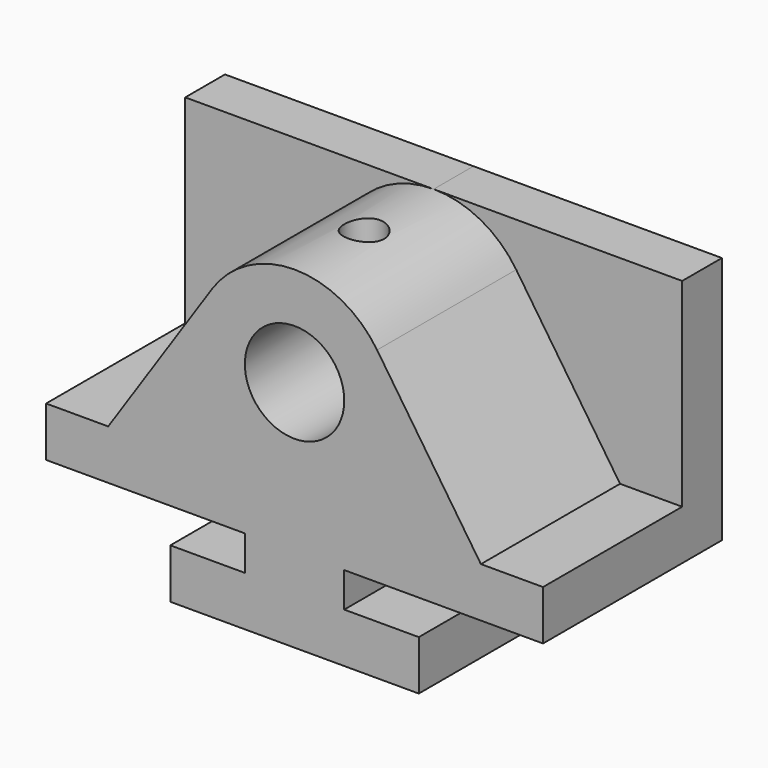
from build123d import *

# Parameters (mm, degrees)
F0_R     = 12.7
F1_DEPTH = 44.45
F3_DEPTH = 12.7
F4_R     = 5.08
F5_DEPTH = 14.7602579501


with BuildPart() as f1:
    # F0 (on Front) → F1 (new body)
    with BuildSketch(Plane.XZ):
        with BuildLine():
            Line((-31.75, -21.59), (0, -21.59))
            Line((0, -21.59), (31.75, -21.5900009905))
            Line((31.75, -21.5900009905), (31.75, -8.89))
            Line((31.75, -8.89), (12.7, -8.89))
            Line((12.7, -8.89), (12.7, 0))
            Line((12.7, 0), (63.4999997359, 0))
            Line((63.4999997359, 0), (63.4999997359, 12.6999990095))
            Line((63.4999997359, 12.6999990095), (47.6249997359, 12.6999990095))
            Line((47.6249997359, 12.6999990095), (21.0934258346, 52.2501726688))
            ThreePointArc((21.0934258346, 52.2501726688), (2.641e-07, 63.5), (-21.0934255404, 52.2501731075))
            Line((-21.0934255404, 52.2501731075), (-47.6250002641, 12.7))
            Line((-47.6250002641, 12.7), (-63.5000002641, 12.7))
            Line((-63.5000002641, 12.7), (-63.5000002641, 0))
            Line((-63.5000002641, 0), (-12.7, 0))
            Line((-12.7, 0), (-12.7, -8.89))
            Line((-12.7, -8.89), (-31.75, -8.89))
            Line((-31.75, -8.89), (-31.75, -21.59))
        make_face()
        with Locations((0, 38.1)):
            Circle(F0_R, mode=Mode.SUBTRACT)
    extrude(amount=F1_DEPTH)

    # F2 (on face) → F3 (join)
    with BuildSketch(Plane(origin=(0, 0, 0), x_dir=(-1, 0, 0), z_dir=(0, 1, 0))):
        Polygon((-63.4999997359, 63.5), (-63.4999997359, 0), (63.5000002641, 0), (63.5000002641, 12.7), (63.5000002641, 63.5000006603), (-2.641e-07, 63.5), align=None)
    extrude(amount=F3_DEPTH)

    # F4 (on face) → F5 (cut, up to face)
    with BuildSketch(Plane.XY.offset(63.5)):
        with Locations((2.641e-07, -22.225)):
            Circle(F4_R)
    extrude(amount=-F5_DEPTH, mode=Mode.SUBTRACT)


solid = f1.part
